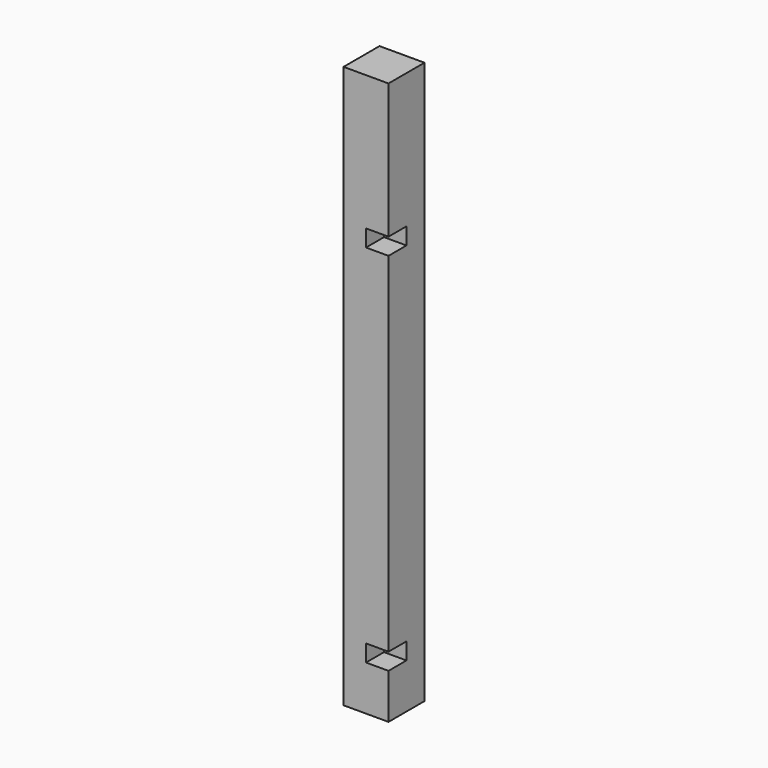
from build123d import *

# Parameters (mm, degrees)
F0_W     = 50.8
F0_H     = 50.8
F1_DEPTH = 635
F2_W     = 25.4
F2_H     = 19.05
F3_DEPTH = 25.4


with BuildPart() as f1:
    # F0 (on Top) → F1 (new body)
    with BuildSketch(Plane.XY):
        with Locations((25.4, 25.4)):
            Rectangle(F0_W, F0_H)
    extrude(amount=F1_DEPTH)

    # F2 (on face) → F3 (cut)
    with BuildSketch(Plane.XZ):
        with Locations((38.1, 60.325)):
            Rectangle(F2_W, F2_H)
        with Locations((38.1, 473.075)):
            Rectangle(F2_W, F2_H)
    extrude(amount=-F3_DEPTH, mode=Mode.SUBTRACT)


solid = f1.part
